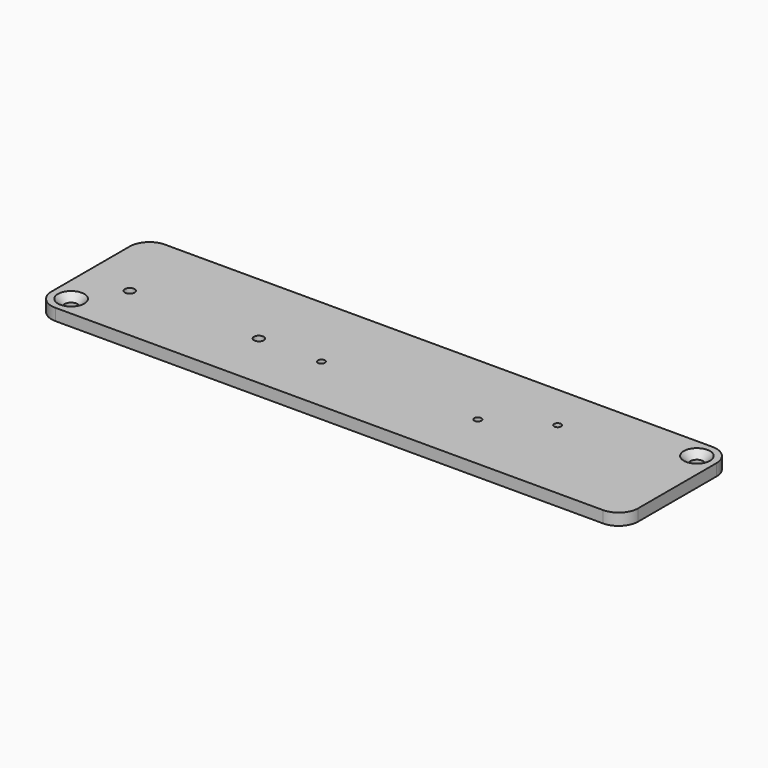
from build123d import *

# Parameters (mm, degrees)
F0_W           = 150
F0_H           = 35
F0_R           = 1.25
F0_R_2         = 0.9
F1_DEPTH       = 3
F2_R           = 5
F4_D           = 3.3
F4_CSINK_D     = 6.72
F4_CSINK_ANGLE = 90


with BuildPart() as f1:
    # F0 (on Top) → F1 (new body)
    with BuildSketch(Plane.XY):
        with Locations((75, 17.5)):
            Rectangle(F0_W, F0_H)
        with Locations((12, 15)):
            Circle(F0_R, mode=Mode.SUBTRACT)
        with Locations((45, 15)):
            Circle(F0_R, mode=Mode.SUBTRACT)
        with Locations((61, 15)):
            Circle(F0_R_2, mode=Mode.SUBTRACT)
        with Locations((101, 15)):
            Circle(F0_R_2, mode=Mode.SUBTRACT)
        with Locations((115, 23)):
            Circle(F0_R_2, mode=Mode.SUBTRACT)
    extrude(amount=F1_DEPTH)

    # F2
    f2_edges = [f1.edges().sort_by_distance(p)[0] for p in [
        (0, 35, 1.5),
        (0, 0, 1.5),
        (150, 0, 1.5),
        (150, 35, 1.5),
    ]]
    fillet(f2_edges, radius=F2_R)

    # F4 (through all)
    with Locations(Plane.XY.offset(3)):
        with Locations((5, 5), (145, 30)):
            CounterSinkHole(F4_D / 2, F4_CSINK_D / 2, counter_sink_angle=F4_CSINK_ANGLE)


solid = f1.part
